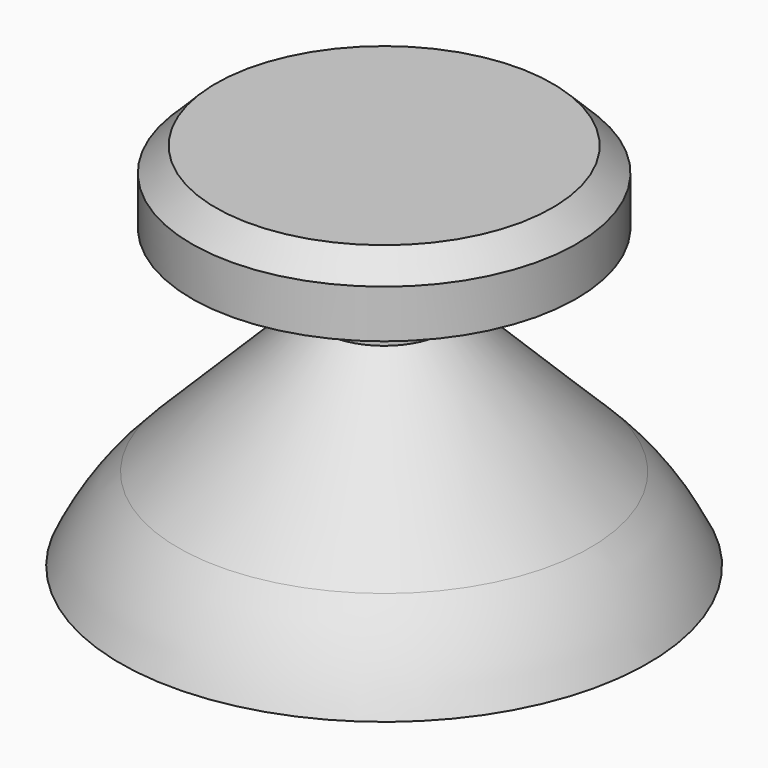
from build123d import *

# Parameters (mm, degrees)
SKETCH033_R             = 3
PAD015_DEPTH            = 4
SKETCH035_W             = 0.6
SKETCH035_H             = 4
POCKET014_DEPTH         = 8.552756
SKETCH008_R             = 2.6
PAD016_DEPTH            = 4
SKETCH034_R             = 8
PAD017_DEPTH            = 3
CHAMFER010_SIZE         = 1
BODY005_PLACEMENT_ANGLE = 135


with BuildPart() as part:
    # Sketch032 → Revolution (revolve)
    with BuildSketch(Plane.XZ):
        with BuildLine():
            Line((-2.2, 0), (-2.2, -2))
            Line((-2.2, -2), (-2.2, -5))
            Line((-2.2, -5), (-2.8, -5))
            Line((-2.8, -5), (-4.923191, -2.876809))
            ThreePointArc((-4.923191, -2.876809), (-8.269417, -5.211047), (-10.611545, -8.551756))
            Line((-10.611545, -8.551756), (-10.974068, -8.382708))
            ThreePointArc((-8.562033, -4.937967), (-9.918738, -6.554825), (-10.974068, -8.382708))
            Line((-8.562033, -4.937967), (-2.6, 1.024067))
            Line((-2.6, 1.024067), (-2.6, 0))
            Line((-2.6, 0), (-2.2, 0))
        make_face()
    revolve(axis=Axis((0, 0, 0), (0, 0, 1)))

    # Sketch033 → Pad015 (new body)
    with BuildSketch(Plane.XY):
        Circle(SKETCH033_R)
        with BuildLine():
            Line((1.609348, 1.5), (-1.609348, 1.5))
            ThreePointArc((-1.609348, 1.5), (-2.2, 0), (-1.609348, -1.5))
            Line((-1.609348, -1.5), (1.609348, -1.5))
            ThreePointArc((1.609348, -1.5), (2.2, 0), (1.609348, 1.5))
        make_face(mode=Mode.SUBTRACT)
    extrude(amount=-PAD015_DEPTH)

    # Sketch035 → Pocket014 (cut, through all)
    with BuildSketch(Plane.XY):
        Rectangle(SKETCH035_W, SKETCH035_H)
    extrude(amount=-POCKET014_DEPTH, mode=Mode.SUBTRACT)

    # Sketch008 → Pad016 (join)
    with BuildSketch(Plane.XY):
        Circle(SKETCH008_R)
    extrude(amount=PAD016_DEPTH)

    # Sketch034 (on Face4 of Pad016) → Pad017 (join)
    with BuildSketch(Plane(origin=(0, 0, 4), x_dir=(-1, 0, 0), z_dir=(0, 0, 1))):
        Circle(SKETCH034_R)
    extrude(amount=PAD017_DEPTH)

    # Chamfer010
    chamfer010_edges = [part.edges().sort_by_distance(p)[0] for p in [
        (8, 0, 7),
    ]]
    chamfer(chamfer010_edges, length=CHAMFER010_SIZE)


with BuildPart() as part_1:
    # Body005 placement: moved
    add(part.part.moved(Location((128.68, -199, 22))).rotate(Axis((128.68, -199, 22), (0, 0, 1)), BODY005_PLACEMENT_ANGLE))


solid = part_1.part
